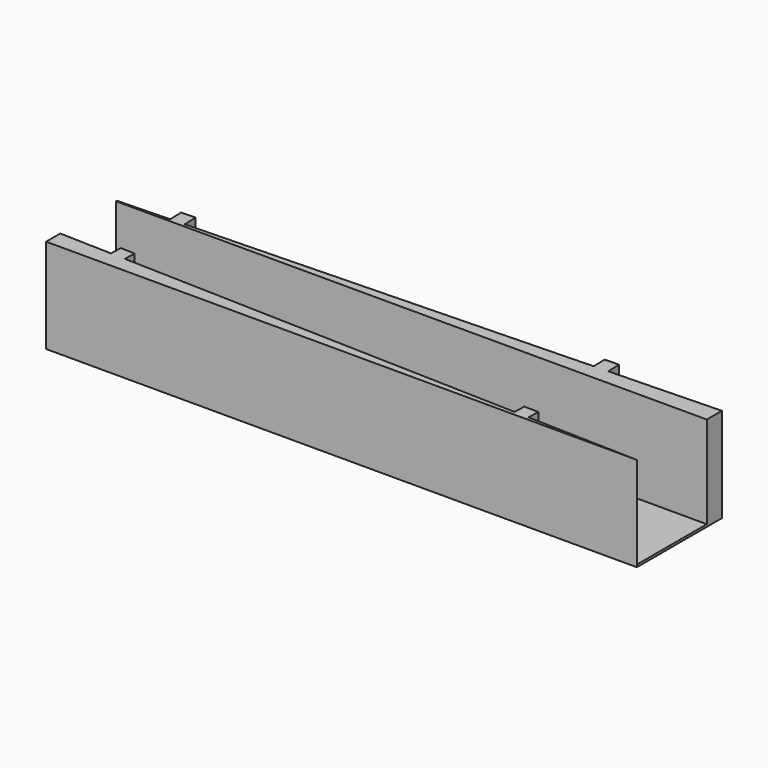
from build123d import *

# Parameters (mm, degrees)
PAD_DEPTH       = 80
POCKET_DEPTH    = 78
POCKET001_DEPTH = 408.7079232475
POCKET002_DEPTH = 408.4326470939


with BuildPart() as part:
    # Sketch → Pad (new body)
    with BuildSketch(Plane.XY):
        Polygon((450, 0), (450, 90), (356, 87.18), (355.64, 99.18), (343.64, 98.82), (344, 86.82), (6, 76.68), (5.64, 88.6800000001), (-6.36, 88.3200000001), (-6, 76.32), (-50, 75), (-50, 0), align=None)
    extrude(amount=PAD_DEPTH)

    # Sketch001 (on Face14 of Pad) → Pocket (cut)
    with BuildSketch(Plane.XY.offset(80)):
        Polygon((-50, 15), (-50, 74), (450, 74), (450, 0), (356, 2.82), (356.3, 12.82), (344.3, 13.18), (344, 3.18), (6, 13.32), (6.3, 23.32), (-5.7, 23.68), (-6, 13.68), align=None)
    extrude(amount=-POCKET_DEPTH, mode=Mode.SUBTRACT)

    # Sketch002 (on Face26 of Pocket) → Pocket001 (cut, through all)
    with BuildSketch(Plane(origin=(355.5953641722, -10.6678609252, 0), x_dir=(0.0299865091, 0.9995503035, 0), z_dir=(0.9995503035, -0.0299865091, 0))):
        with BuildLine():
            ThreePointArc((23.4984280855, 56), (19.9988591841, 57.4495689014), (21.4484280855, 53.95))
            ThreePointArc((21.4484280855, 53.95), (17.8329435114, 41), (21.4484280855, 28.05))
            ThreePointArc((21.4484280855, 28.05), (19.9988591841, 24.5504310986), (23.4984280855, 26))
            Line((23.4984280855, 26), (23.4984280855, 56))
        make_face()
    extrude(amount=-POCKET001_DEPTH, mode=Mode.SUBTRACT)

    # Sketch003 (on Face14 of Pocket001) → Pocket002 (cut, through all)
    with BuildSketch(Plane(origin=(358.2929363573, 10.7487880907, 0), x_dir=(-0.0299865091, 0.9995503035, 0), z_dir=(0.9995503035, 0.0299865091, 0))):
        with BuildLine():
            ThreePointArc((88.470997005, 56), (84.9714281036, 57.4495689014), (86.420997005, 53.95))
            ThreePointArc((86.420997005, 53.95), (82.8055124309, 41), (86.420997005, 28.05))
            ThreePointArc((86.420997005, 28.05), (84.9714281036, 24.5504310986), (88.470997005, 26))
            Line((88.470997005, 26), (88.470997005, 56))
        make_face()
    extrude(amount=-POCKET002_DEPTH, mode=Mode.SUBTRACT)


solid = part.part
